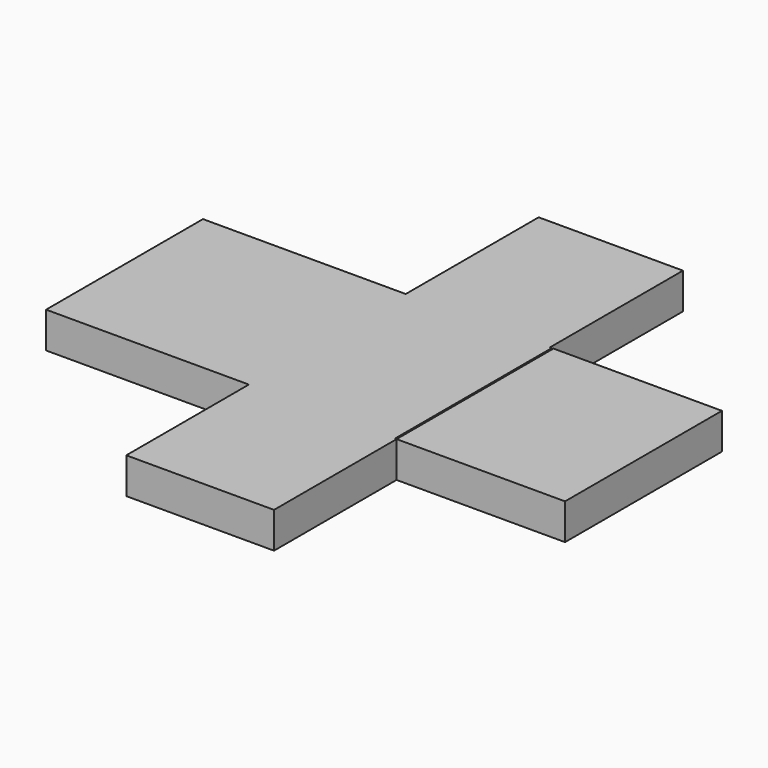
from build123d import *

# Parameters (mm, degrees)
F0_W     = 143.29303
F0_H     = 50.347287
F0_W_2   = 119.029246
F0_H_2   = 138.577204
F0_H_3   = 88.229917
F0_W_3   = 101.981629
F0_H_4   = 117.377427
F1_DEPTH = 25.4


with BuildPart() as f1:
    # F0 (on Top) → F1 (new body)
    with BuildSketch(Plane.XY):
        with Locations((-141.655799, -33.732844)):
            Rectangle(F0_W, F0_H)
        with Locations((93.894217, -77.847803)):
            Rectangle(F0_W_2, F0_H_2)
        with Locations((-141.655799, -103.021446)):
            Rectangle(F0_W, F0_H_3)
        Polygon((-70.009284, -8.559201), (-70.009284, -58.906488), (-70.009284, -147.136405), (33.230212, -147.136405), (33.230212, -8.559201), (31.972345, -8.559201), align=None)
        with Locations((-19.018469, 50.129512)):
            Rectangle(F0_W_3, F0_H_4)
        Polygon((33.230212, -147.136405), (-70.009284, -147.136405), (-70.009284, -255.40629), (34.379594, -255.40629), (34.379594, -147.136405), align=None)
    extrude(amount=F1_DEPTH)


solid = f1.part
